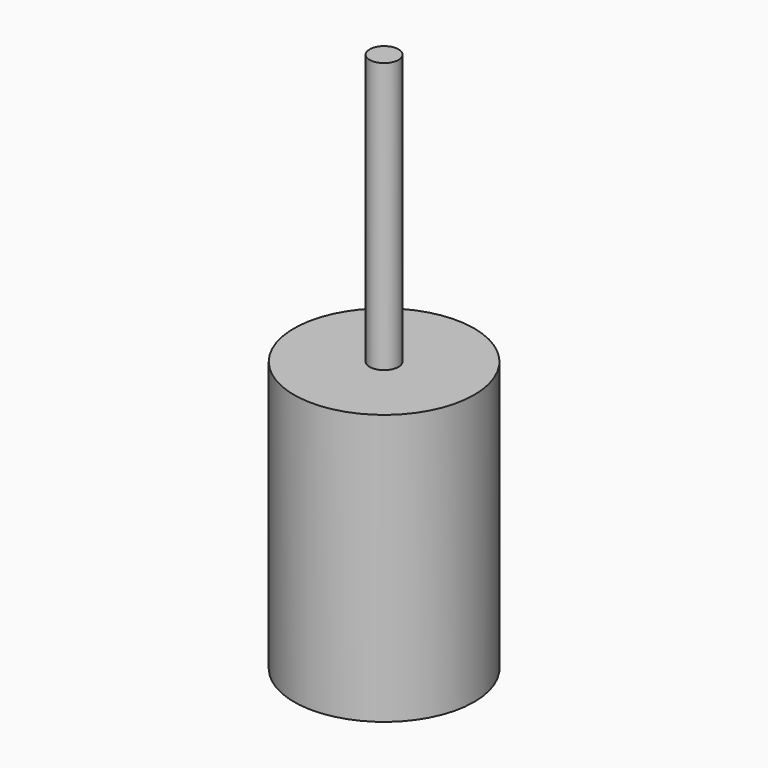
from build123d import *

# Parameters (mm, degrees)
F0_R     = 25
F0_R_2   = 23.5
F1_DEPTH = 70
F2_R     = 25
F3_DEPTH = 5
F4_R     = 4
F5_DEPTH = 75
F0_R_3   = 10
F6_DEPTH = 75


with BuildPart() as f1:
    # F0 (on Top) → F1 (new body)
    with BuildSketch(Plane.XY):
        Circle(F0_R)
        Circle(F0_R_2, mode=Mode.SUBTRACT)
    extrude(amount=F1_DEPTH)

    # F2 (on face) → F3 (join)
    with BuildSketch(Plane.XY.offset(70)):
        Circle(F2_R)
    extrude(amount=F3_DEPTH)

    # F4 (on face) → F5 (join)
    with BuildSketch(Plane.XY.offset(75)):
        Circle(F4_R)
    extrude(amount=F5_DEPTH)

    # F0 (on Top) → F6 (join)
    with BuildSketch(Plane.XY):
        Circle(F0_R_3)
    extrude(amount=F6_DEPTH)


solid = f1.part
